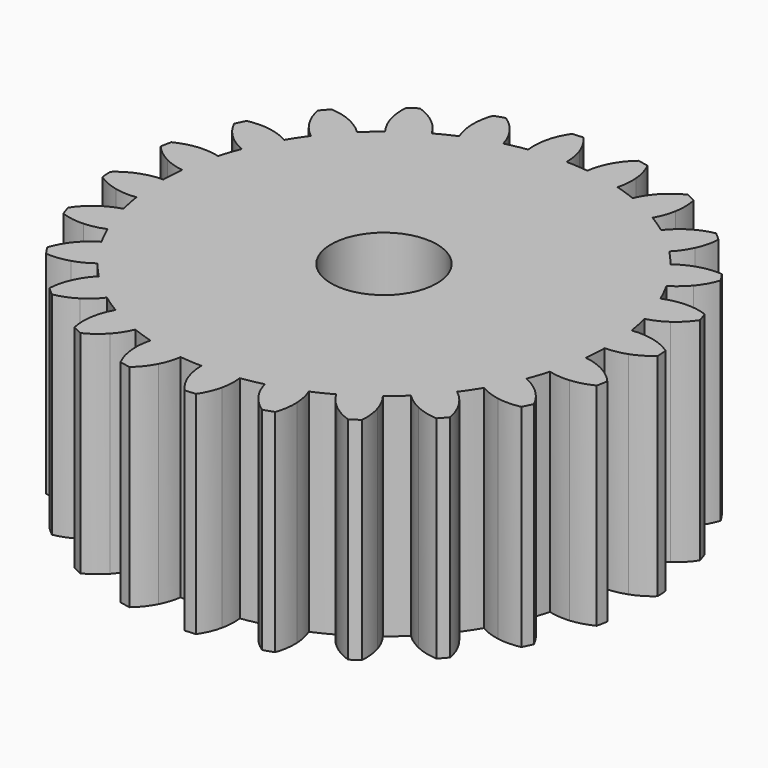
from build123d import *

# Parameters (mm, degrees)
F1_DEPTH = 2
F2_COUNT = 24
F3_R     = 0.5
F4_DEPTH = 2.001


with BuildPart() as f1:
    # F0 (on Top) → F1 (new body)
    with BuildSketch(Plane.XY):
        with BuildLine():
            ThreePointArc((-0.310404, 2.092098), (-1.381434, -1.60152), (2.115, 0))
            ThreePointArc((2.115, 0), (1.50774, 1.483221), (0.034675, 2.114716))
            ThreePointArc((0.034675, 2.114716), (-0.138328, 2.110472), (-0.310404, 2.092098))
        make_face()
        with BuildLine():
            ThreePointArc((-0.310404, 2.092098), (-0.138328, 2.110472), (0.034675, 2.114716))
            ThreePointArc((0.034675, 2.114716), (0.025821, 2.213864), (0, 2.31))
            ThreePointArc((0, 2.31), (-0.047238, 2.409128), (-0.112458, 2.497469))
            ThreePointArc((-0.112458, 2.497469), (-0.163508, 2.494647), (-0.214489, 2.490782))
            ThreePointArc((-0.214489, 2.490782), (-0.267621, 2.394684), (-0.301516, 2.290238))
            ThreePointArc((-0.301516, 2.290238), (-0.314568, 2.191554), (-0.310404, 2.092098))
        make_face()
    extrude(amount=F1_DEPTH)

    # F2: F1 ×24 about axis
    f2_axis = Axis((0, 0, 0), (0, 0, -1))


with BuildPart() as f1_1:
    add(f1.part)
    for i in range(1, F2_COUNT):
        add(f1.part.rotate(f2_axis, i * 360 / F2_COUNT))

    # F3 (on face) → F4 (cut, through all)
    with BuildSketch(Plane.XY.offset(2)):
        Circle(F3_R)
    extrude(amount=-F4_DEPTH, mode=Mode.SUBTRACT)


solid = f1_1.part
